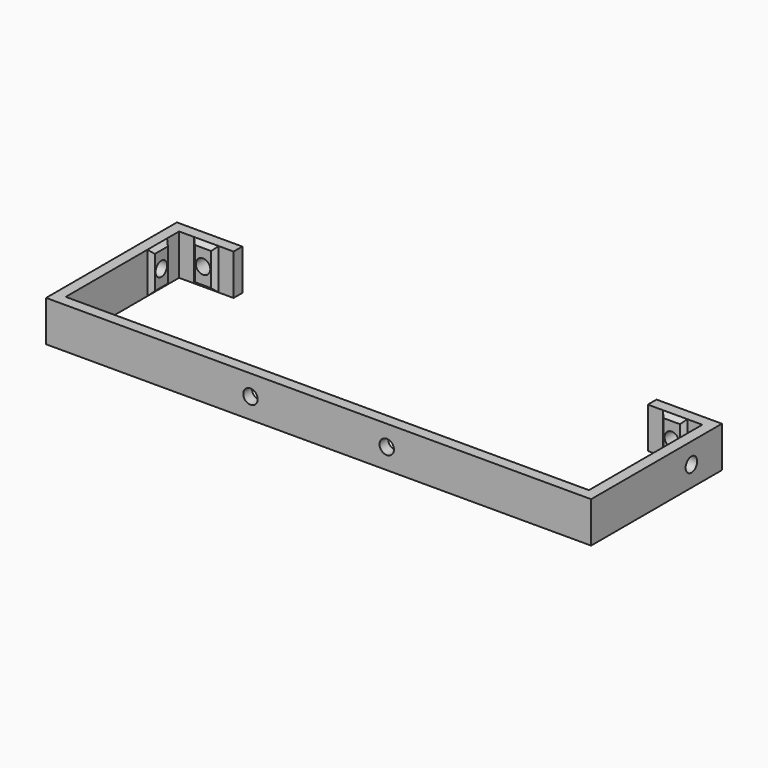
from build123d import *

# Parameters (mm, degrees)
F1_DEPTH  = 15
F3_DEPTH  = 15
F4_SIZE   = 1.5
F5_R      = 2.65
F6_DEPTH  = 4
F7_R      = 2.65
F8_DEPTH  = 200.001
F9_R      = 2.65
F10_DEPTH = 5.5


with BuildPart() as f1:
    # F0 (on Top) → F1 (new body)
    with BuildSketch(Plane.XY):
        Polygon((0, 60), (0, 0), (200, 0), (200, 60), (176, 60), (176, 56), (196, 56), (196, 4), (4, 4), (4, 56), (24, 56), (24, 60), align=None)
    extrude(amount=F1_DEPTH)

    # F2 (on Top) → F3 (join, through all)
    with BuildSketch(Plane.XY):
        Polygon((17, 54.5), (18.5, 56), (9.5, 56), (11, 54.5), align=None)
        Polygon((5.5, 49), (4, 50.5), (4, 41.5), (5.5, 43), align=None)
        Polygon((196, 41.5), (196, 50.5), (194.5, 49), (194.5, 43), align=None)
        Polygon((189, 54.5), (190.5, 56), (181.5, 56), (183, 54.5), align=None)
    extrude(amount=F3_DEPTH)

    # F4
    f4_edges = [f1.edges().sort_by_distance(p)[0] for p in [
        (5.5, 46, 15),
        (5.5, 46, 0),
        (14, 54.5, 0),
        (14, 54.5, 15),
        (186, 54.5, 15),
        (194.5, 46, 15),
        (194.5, 46, 0),
        (186, 54.5, 0),
    ]]
    chamfer(f4_edges, length=F4_SIZE)

    # F5 (on face) → F6 (cut, through all)
    with BuildSketch(Plane.XZ):
        with Locations((75, 7.5)):
            Circle(F5_R)
        with Locations((125, 7.5)):
            Circle(F5_R)
    extrude(amount=-F6_DEPTH, mode=Mode.SUBTRACT)

    # F7 (on face) → F8 (cut, through all)
    with BuildSketch(Plane.YZ.offset(200)):
        with Locations((46, 7.5)):
            Circle(F7_R)
    extrude(amount=-F8_DEPTH, mode=Mode.SUBTRACT)

    # F9 (on face) → F10 (cut, through all)
    with BuildSketch(Plane(origin=(0, 60, 0), x_dir=(-1, 0, 0), z_dir=(0, 1, 0))):
        with Locations((-186, 7.5)):
            Circle(F9_R)
        with Locations((-14, 7.5)):
            Circle(F9_R)
    extrude(amount=-F10_DEPTH, mode=Mode.SUBTRACT)


solid = f1.part
